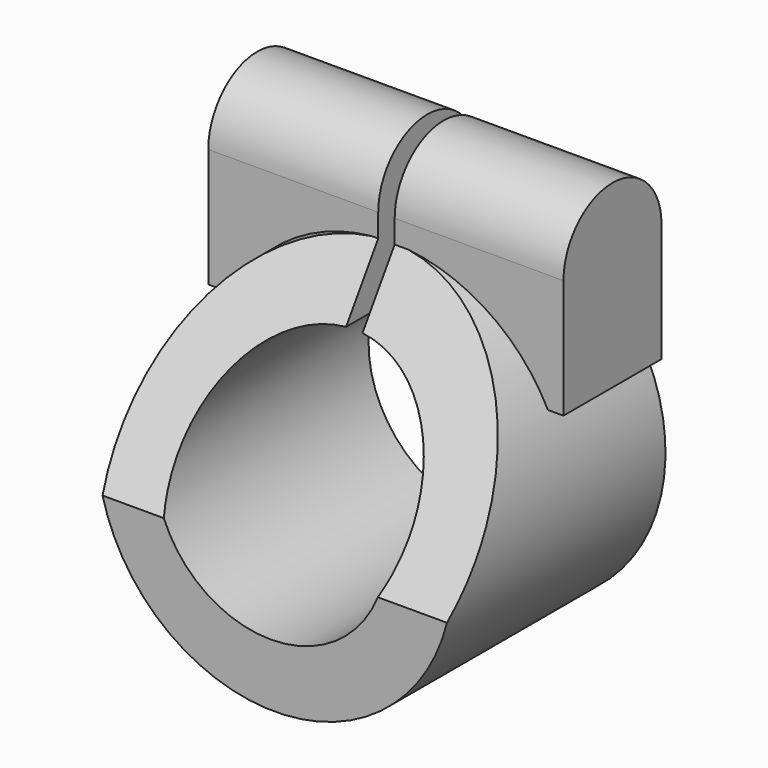
from build123d import *

# Parameters (mm, degrees)
SKETCH_R             = 10
SKETCH_R_2           = 6.5
PAD_DEPTH            = 15
POCKET_DEPTH         = 15
POCKET_DEPTH_BACK    = -15
PAD001_DEPTH         = 10
PAD001_DEPTH_BACK    = 10
SKETCH003_W          = 0.925108
SKETCH003_H          = 21.969815
POCKET001_DEPTH      = 15
POCKET001_DEPTH_BACK = -15
SKETCH004_R          = 6.5
POCKET002_DEPTH      = 15
POCKET002_DEPTH_BACK = -15


with BuildPart() as part:
    # Sketch (on XZ_Plane of Origin) → Pad (new body)
    with BuildSketch(Plane.XZ):
        with Locations((0.223041, 0)):
            Circle(SKETCH_R)
        Circle(SKETCH_R_2, mode=Mode.SUBTRACT)
    extrude(amount=PAD_DEPTH)

    # Sketch001 (on YZ_Plane of Origin) → Pocket (cut, two sides)
    with BuildSketch(Plane.YZ) as pocket_sk:
        Polygon((-5.152612, 12.624485), (-17.571489, -6.377891), (-30.254476, 15.01538), (-10.204725, 21.22482), align=None)
    extrude(amount=-POCKET_DEPTH, mode=Mode.SUBTRACT)
    extrude(pocket_sk.sketch, amount=-POCKET_DEPTH_BACK, mode=Mode.SUBTRACT)

    # Sketch002 (on YZ_Plane of Origin) → Pad001 (join, two sides)
    with BuildSketch(Plane.YZ) as pad001_sk:
        with BuildLine():
            ThreePointArc((-0.00519, 11.247658), (-3.454061, 14.696529), (-6.902933, 11.247658))
            Line((-6.902933, 11.247658), (-6.902933, 4.5552))
            Line((-0.00519, 4.5552), (-6.902933, 4.5552))
            Line((-0.00519, 11.247658), (-0.00519, 4.5552))
        make_face()
    extrude(amount=PAD001_DEPTH)
    extrude(pad001_sk.sketch, amount=-PAD001_DEPTH_BACK)

    # Sketch003 (on XZ_Plane of Origin) → Pocket001 (cut, two sides)
    with BuildSketch(Plane.XZ) as pocket001_sk:
        with Locations((0.033004, 12.288593)):
            Rectangle(SKETCH003_W, SKETCH003_H)
    extrude(amount=-POCKET001_DEPTH, mode=Mode.SUBTRACT)
    extrude(pocket001_sk.sketch, amount=-POCKET001_DEPTH_BACK, mode=Mode.SUBTRACT)

    # Sketch004 (on XZ_Plane of Origin) → Pocket002 (cut, two sides)
    with BuildSketch(Plane.XZ) as pocket002_sk:
        Circle(SKETCH004_R)
    extrude(amount=-POCKET002_DEPTH, mode=Mode.SUBTRACT)
    extrude(pocket002_sk.sketch, amount=-POCKET002_DEPTH_BACK, mode=Mode.SUBTRACT)


solid = part.part
